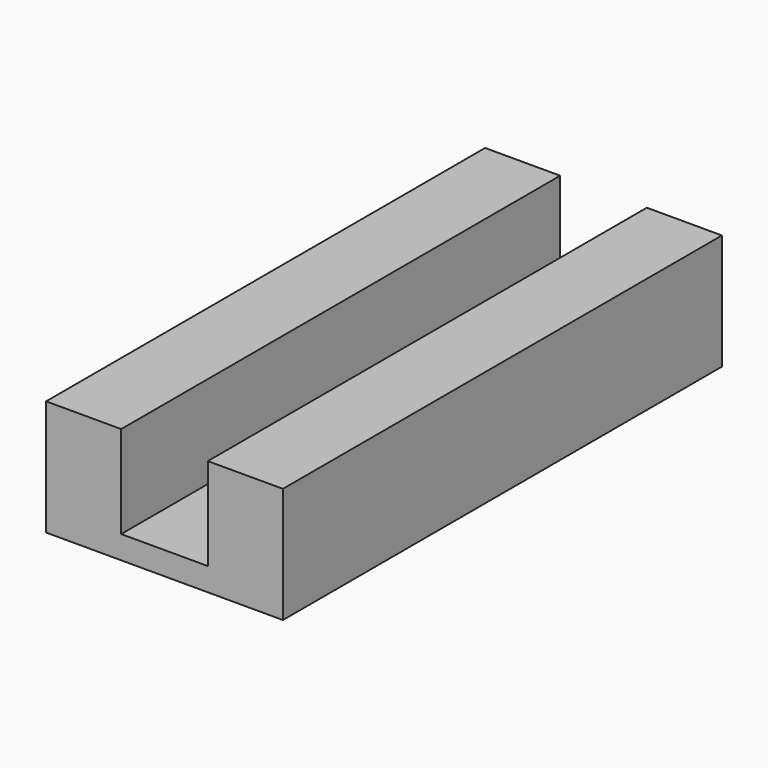
from build123d import *

# Parameters (mm, degrees)
BOX008_W          = 26
BOX008_H          = 190
BOX008_DEPTH      = 32
CYLINDER011_R     = 5
CYLINDER011_DEPTH = 16
CYLINDER010_R     = 5
CYLINDER010_DEPTH = 16
BOX006_W          = 82
BOX006_H          = 190
BOX006_DEPTH      = 8
BOX007_W          = 26
BOX007_H          = 190
BOX007_DEPTH      = 32


with BuildPart() as box008:
    # Box008 → Box008 (new body)
    with BuildSketch(Plane.XY.offset(8)):
        with Locations((13, 95)):
            Rectangle(BOX008_W, BOX008_H)
    extrude(amount=BOX008_DEPTH)


with BuildPart() as cylinder011:
    # Cylinder011 → Cylinder011 (new body)
    with BuildSketch(Plane(origin=(41, 167, -4), x_dir=(1, 0, 0), z_dir=(0, 0, 1))):
        Circle(CYLINDER011_R)
    extrude(amount=CYLINDER011_DEPTH)


with BuildPart() as cylinder010:
    # Cylinder010 → Cylinder010 (new body)
    with BuildSketch(Plane(origin=(41, 43, -4), x_dir=(1, 0, 0), z_dir=(0, 0, 1))):
        Circle(CYLINDER010_R)
    extrude(amount=CYLINDER010_DEPTH)


with BuildPart() as suelo_taladrado:
    # Box006 → Box006 (new body)
    with BuildSketch(Plane.XY):
        with Locations((41, 95)):
            Rectangle(BOX006_W, BOX006_H)
    extrude(amount=BOX006_DEPTH)

    # Cut002: cut Cylinder010
    add(cylinder010.part, mode=Mode.SUBTRACT)

    # Cut003: cut Cylinder011
    add(cylinder011.part, mode=Mode.SUBTRACT)


with BuildPart() as suelo_final:
    # Box007 → Box007 (new body)
    with BuildSketch(Plane(origin=(56, 0, 8), x_dir=(1, 0, 0), z_dir=(0, 0, 1))):
        with Locations((13, 95)):
            Rectangle(BOX007_W, BOX007_H)
    extrude(amount=BOX007_DEPTH)

    # Fusion003: union Box008, Suelo taladrado
    add(box008.part)
    add(suelo_taladrado.part)


solid = suelo_final.part
